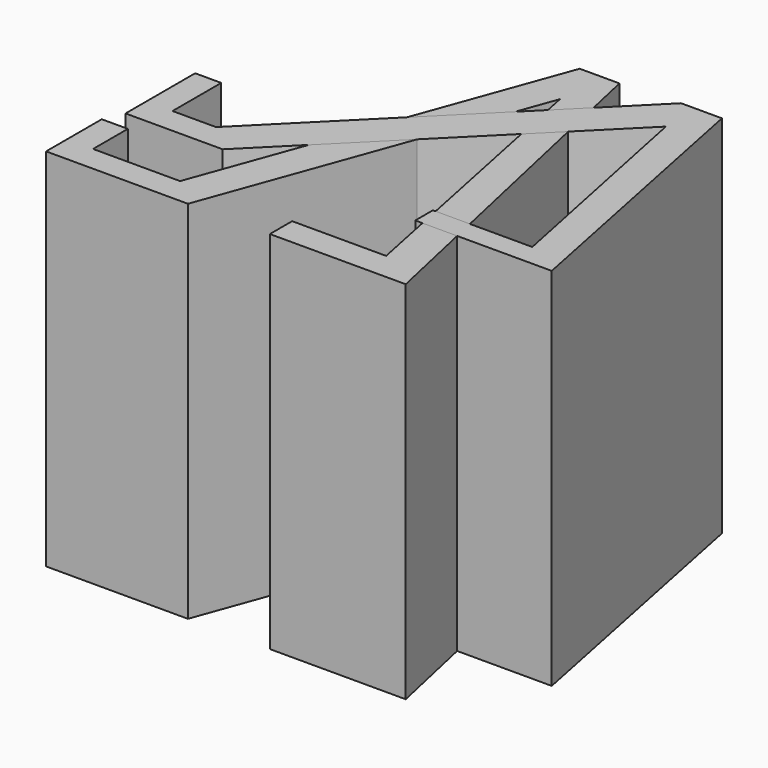
from build123d import *

# Parameters (mm, degrees)
F1_DEPTH = 53.34
F3_DEPTH = 53.34


with BuildPart() as f1:
    # F0 (on Top) → F1 (new body)
    with BuildSketch(Plane.XY):
        Polygon((-10.16, 0), (0, 0), (10.548327, 0), (27.530299, 46.657585), (36.225777, 4.066115), (22.50699, 4.066115), (22.50699, 0), (42.343471, 0), (30.39494, 53.933204), (24.593354, 53.933204), (6.35, 3.81), (0, 3.81), (-6.35, 3.81), (-6.35, 10.16), (-10.16, 10.16), align=None)
    extrude(amount=F1_DEPTH)


with BuildPart() as f3:
    # F2 (on Top) → F3 (new body)
    with BuildSketch(Plane.XY):
        Polygon((-8.939057, 12.972061), (-3.6394, 12.972061), (5.24005, 12.972061), (41.1817, 48.913711), (47.862441, 16.190659), (33.354439, 16.190659), (33.354439, 12.972061), (53.278603, 12.972061), (44.899281, 54.499136), (38.938018, 54.499136), (1.220943, 16.782061), (-1.954057, 16.782061), (-5.129057, 16.782061), (-5.129057, 25.672061), (-8.939057, 25.672061), align=None)
    extrude(amount=F3_DEPTH)


solid = Compound([f1.part, f3.part])
